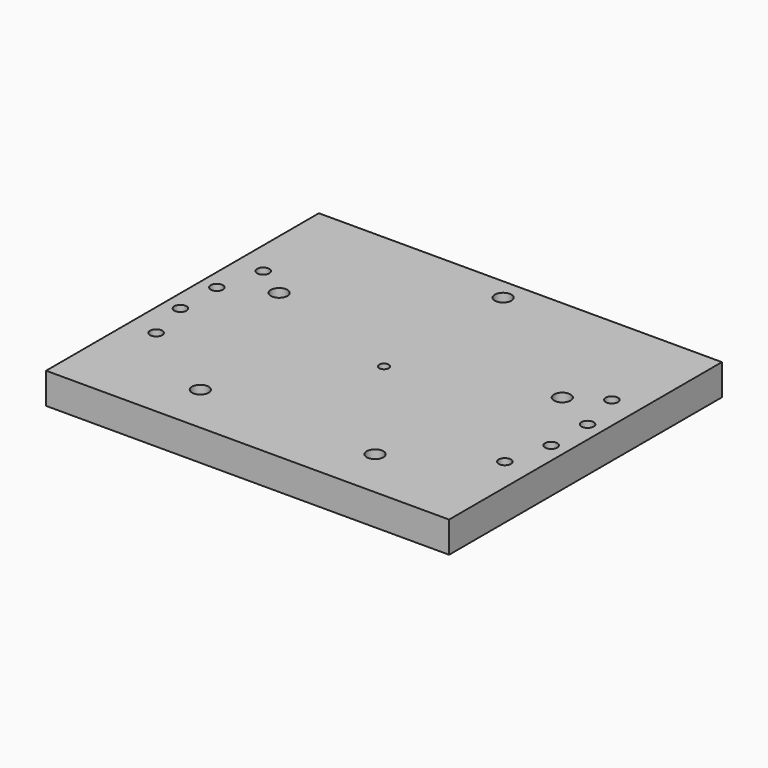
from build123d import *

# Parameters (mm, degrees)
F0_W     = 165.1
F0_H     = 139.7
F1_DEPTH = 12.7
F2_D     = 6.8
F3_D     = 5
F4_D     = 4


with BuildPart() as f1:
    # F0 (on Top) → F1 (new body)
    with BuildSketch(Plane.XY):
        Rectangle(F0_W, F0_H)
    extrude(amount=F1_DEPTH)

    # F2 (through all)
    with Locations(Plane(origin=(0, 0, 0), x_dir=(1, 0, 0), z_dir=(0, 0, -1))):
        with Locations((-58, -18.8), (0, -61), (58, -18.8), (35.8, 49.3), (-35.8, 49.3)):
            Hole(F2_D / 2)

    # F3 (through all)
    with Locations(Plane(origin=(0, 0, 0), x_dir=(1, 0, 0), z_dir=(0, 0, -1))):
        with Locations((-71.418902627, 27.4151481402), (-75.9297806006, 9.3230047705), (-75.9297806006, -9.3230047705), (-71.418902627, -27.4151481402), (71.418902627, 27.4151481402), (75.9297806006, 9.3230047705), (75.9297806006, -9.3230047705), (71.418902627, -27.4151481402)):
            Hole(F3_D / 2)

    # F4 (through all)
    with Locations(Plane(origin=(0, 0, 0), x_dir=(1, 0, 0), z_dir=(0, 0, -1))):
        with Locations((0, 0)):
            Hole(F4_D / 2)


solid = f1.part
